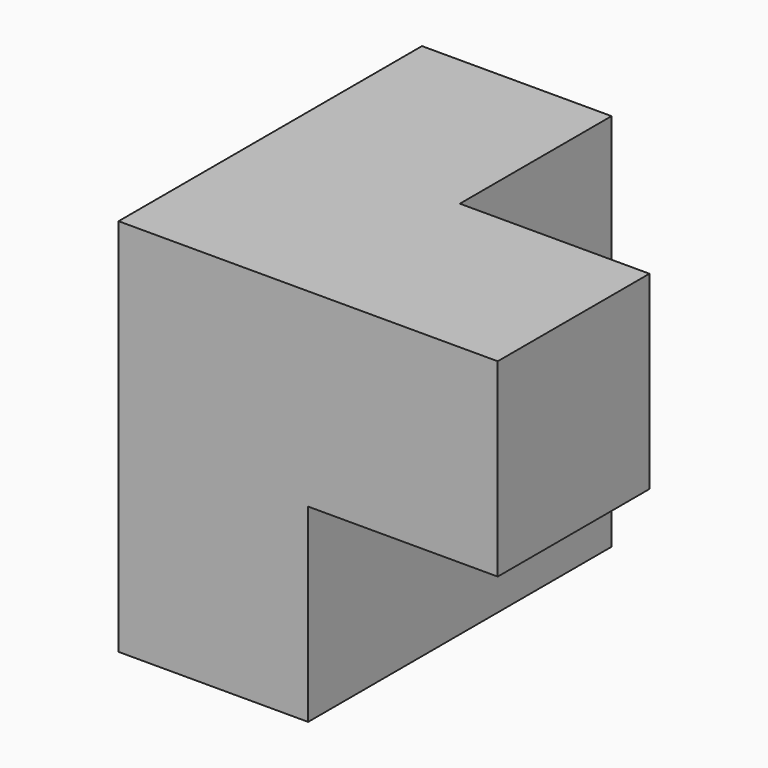
from build123d import *

# Parameters (mm, degrees)
F0_W     = 18.995181
F0_H     = 18.995181
F1_DEPTH = 37.9984
F0_W_2   = 18.995179
F2_DEPTH = 18.9992


with BuildPart() as f1:
    # F0 (on Front) → F1 (new body)
    with BuildSketch(Plane.XZ):
        with Locations((-9.49759, 9.49759)):
            Rectangle(F0_W, F0_H)
        with Locations((-9.49759, -9.49759)):
            Rectangle(F0_W, F0_H)
    extrude(amount=-F1_DEPTH)

    # F0 (on Front) → F2 (join)
    with BuildSketch(Plane.XZ):
        with Locations((9.49759, 9.49759)):
            Rectangle(F0_W_2, F0_H)
    extrude(amount=-F2_DEPTH)


solid = f1.part
